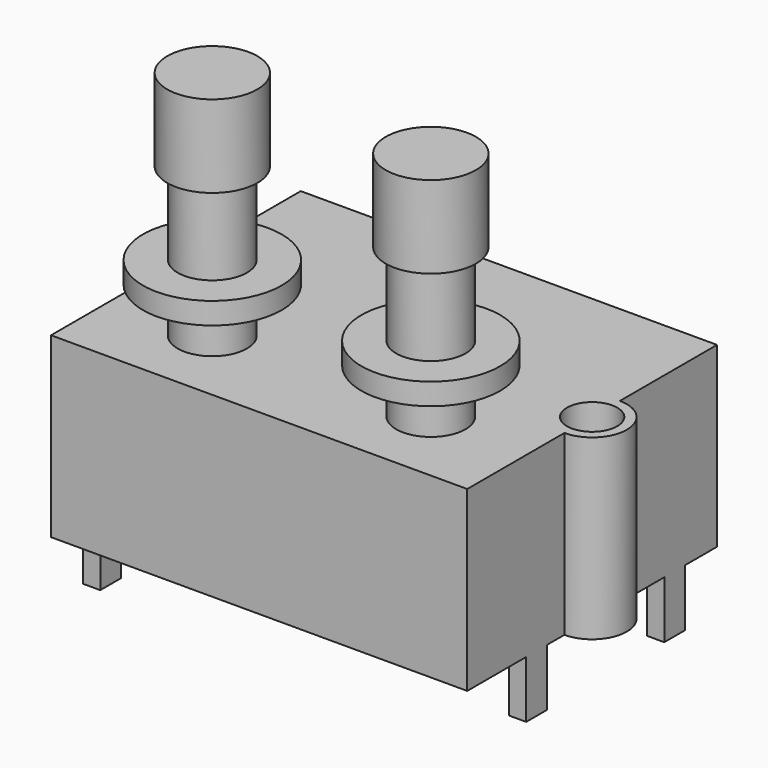
from build123d import *

# Parameters (mm, degrees)
F0_W      = 24
F0_H      = 18
F1_DEPTH  = 10.25
F2_R      = 2
F3_DEPTH  = 2.6
F4_R      = 4
F4_R_2    = 2
F5_DEPTH  = 1.25
F6_R      = 2
F7_DEPTH  = 4.75
F8_R      = 2.6
F9_DEPTH  = 4.75
F10_R     = 2
F11_DEPTH = 10.25
F12_R     = 1.45
F13_DEPTH = 25
F14_W     = 1
F14_H     = 1.5
F15_DEPTH = 3.3


with BuildPart() as f1:
    # F0 (on Top) → F1 (new body)
    with BuildSketch(Plane.XY):
        Rectangle(F0_W, F0_H)
    extrude(amount=F1_DEPTH)

    # F2 (on face) → F3 (join)
    with BuildSketch(Plane.XY.offset(10.25)):
        with Locations((-6.3, -4.5)):
            Circle(F2_R)
        with Locations((6.3, -4.5)):
            Circle(F2_R)
    extrude(amount=F3_DEPTH)

    # F4 (on face) → F5 (join)
    with BuildSketch(Plane.XY.offset(12.85)):
        with Locations((-6.3, -4.5)):
            Circle(F4_R)
        with Locations((-6.3, -4.5)):
            Circle(F4_R_2, mode=Mode.SUBTRACT)
        with Locations((6.3, -4.5)):
            Circle(F4_R)
        with Locations((-6.3, -4.5)):
            Circle(F4_R_2)
    extrude(amount=F5_DEPTH)

    # F6 (on face) → F7 (join)
    with BuildSketch(Plane.XY.offset(14.1)):
        with Locations((6.3, -4.5)):
            Circle(F6_R)
        with Locations((-6.3, -4.5)):
            Circle(F6_R)
    extrude(amount=F7_DEPTH)

    # F8 (on face) → F9 (join)
    with BuildSketch(Plane.XY.offset(18.85)):
        with Locations((-6.3, -4.5)):
            Circle(F8_R)
        with Locations((6.3, -4.5)):
            Circle(F8_R)
    extrude(amount=F9_DEPTH)

    # F10 (on face) → F11 (join)
    with BuildSketch(Plane.XY.offset(10.25)):
        with Locations((-12, 0)):
            Circle(F10_R)
        with Locations((12, 0)):
            Circle(F10_R)
    extrude(amount=-F11_DEPTH)

    # F12 (on face) → F13 (cut)
    with BuildSketch(Plane.XY.offset(10.25)):
        with Locations((-12, 0)):
            Circle(F12_R)
        with Locations((12, 0)):
            Circle(F12_R)
    extrude(amount=-F13_DEPTH, mode=Mode.SUBTRACT)

    # F14 (on face) → F15 (join)
    with BuildSketch(Plane(origin=(0, 0, 0), x_dir=(1, 0, 0), z_dir=(0, 0, -1))):
        with Locations((-11.5, 5.95)):
            Rectangle(F14_W, F14_H)
        with Locations((-11.5, -5.95)):
            Rectangle(F14_W, F14_H)
        with Locations((11.5, -5.95)):
            Rectangle(F14_W, F14_H)
        with Locations((11.5, 4)):
            Rectangle(F14_W, F14_H)
    extrude(amount=F15_DEPTH)


solid = f1.part
